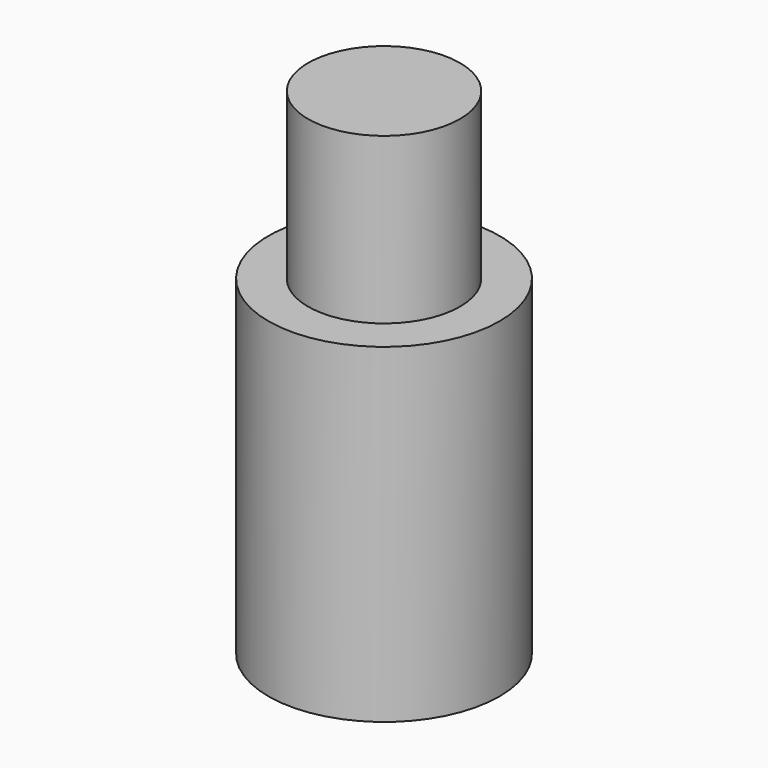
from build123d import *

# Parameters (mm, degrees)
F4_DEPTH      = 2.54
F5_DEPTH      = 1.27
F5_DEPTH_BACK = 1.04875
F8_DEPTH      = 2.54
F9_DEPTH      = 1.27
F9_DEPTH_BACK = 1.04875


with BuildPart() as f1:
    # F0 (on Front) → F1 (revolve)
    with BuildSketch(Plane.XZ):
        Polygon((0, 19.05), (0, 0), (3.08737, 0), (3.96875, 0.635), (3.08737, 1.27), (3.96875, 1.905), (3.08737, 2.54), (2.921, 2.54), (2.921, 12.7), (2.921, 19.05), align=None)
    revolve(axis=Axis((0, 0, 9.525), (0, 0, 1)))

    # F3 (on offset) → F4 (cut)
    with BuildSketch(Plane.YZ.offset(2.921)):
        with BuildLine():
            ThreePointArc((0.381, 3.2334972142), (1.023906734, 3.6936578675), (1.27, 4.445))
            ThreePointArc((1.27, 4.445), (-0.7513421325, 5.468906734), (-0.381, 3.2334972142))
            ThreePointArc((-0.381, 3.2334972142), (0, 3.175), (0.381, 3.2334972142))
        make_face()
    extrude(amount=-F4_DEPTH, mode=Mode.SUBTRACT)

    # F3 (on offset) → F5 (cut, two sides)
    with BuildSketch(Plane.YZ.offset(2.921)) as f5_sk:
        with BuildLine():
            ThreePointArc((0.381, 3.2334972142), (0, 3.175), (-0.381, 3.2334972142))
            Line((-0.381, 3.2334972142), (-0.381, 0))
            Line((-0.381, 0), (0.381, 0))
            Line((0.381, 0), (0.381, 3.2334972142))
        make_face()
    extrude(amount=-F5_DEPTH, mode=Mode.SUBTRACT)
    extrude(f5_sk.sketch, amount=F5_DEPTH_BACK, mode=Mode.SUBTRACT)

    # F7 (on offset) → F8 (cut)
    with BuildSketch(Plane.YZ.offset(-2.921)):
        with BuildLine():
            ThreePointArc((0.381, 7.6784972142), (1.023906734, 8.1386578675), (1.27, 8.89))
            ThreePointArc((1.27, 8.89), (-0.7513421325, 9.913906734), (-0.381, 7.6784972142))
            ThreePointArc((-0.381, 7.6784972142), (0, 7.62), (0.381, 7.6784972142))
        make_face()
    extrude(amount=F8_DEPTH, mode=Mode.SUBTRACT)

    # F7 (on offset) → F9 (cut, two sides)
    with BuildSketch(Plane.YZ.offset(-2.921)) as f9_sk:
        with BuildLine():
            ThreePointArc((0.381, 7.6784972142), (0, 7.62), (-0.381, 7.6784972142))
            Line((-0.381, 7.6784972142), (-0.381, 0))
            Line((-0.381, 0), (0.381, 0))
            Line((0.381, 0), (0.381, 7.6784972142))
        make_face()
    extrude(amount=F9_DEPTH, mode=Mode.SUBTRACT)
    extrude(f9_sk.sketch, amount=-F9_DEPTH_BACK, mode=Mode.SUBTRACT)


with BuildPart() as f10:
    # F0 (on Front) → F10 (revolve)
    with BuildSketch(Plane.XZ):
        Polygon((3.96875, 0.635), (3.08737, 0), (4.445, 0), (4.445, 12.7), (2.921, 12.7), (2.921, 2.54), (3.08737, 2.54), (3.96875, 1.905), (3.08737, 1.27), align=None)
    revolve(axis=Axis((0, 0, 9.525), (0, 0, 1)))


solid = Compound([f1.part, f10.part])
